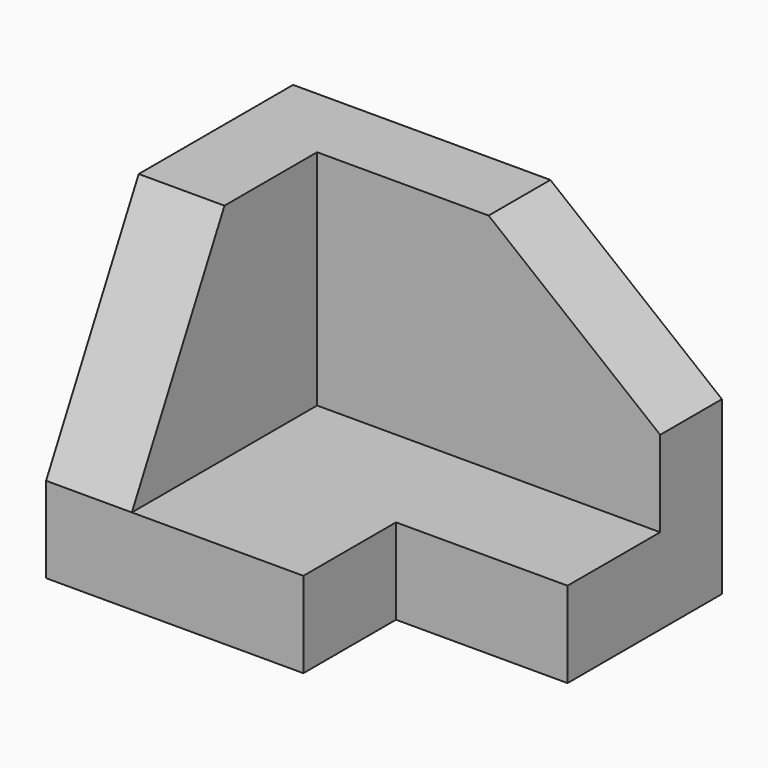
from build123d import *

# Parameters (mm, degrees)
F1_DEPTH = 36
F2_DEPTH = 27
F4_DEPTH = 10.001
F5_W     = 20
F5_H     = 13.5
F6_DEPTH = 10.001


with BuildPart() as f1:
    # F0 (on Front) → F1 (new body)
    with BuildSketch(Plane.XZ):
        Polygon((0, 36), (0, 0), (50, 0), (50, 10), (10, 10), (10, 36), align=None)
        Polygon((10, 10), (50, 10), (50, 20), (30, 36), (10, 36), align=None)
    extrude(amount=-F1_DEPTH)

    # F0 (on Front) → F2 (cut)
    with BuildSketch(Plane.XZ):
        Polygon((10, 10), (50, 10), (50, 20), (30, 36), (10, 36), align=None)
    extrude(amount=-F2_DEPTH, mode=Mode.SUBTRACT)

    # F3 (on face) → F4 (cut, through all)
    with BuildSketch(Plane.YZ.offset(10)):
        Polygon((0, 10), (13.5, 36), (0, 36), align=None)
    extrude(amount=-F4_DEPTH, mode=Mode.SUBTRACT)

    # F5 (on face) → F6 (cut, through all)
    with BuildSketch(Plane.XY.offset(10)):
        with Locations((40, 6.75)):
            Rectangle(F5_W, F5_H)
    extrude(amount=-F6_DEPTH, mode=Mode.SUBTRACT)


solid = f1.part
